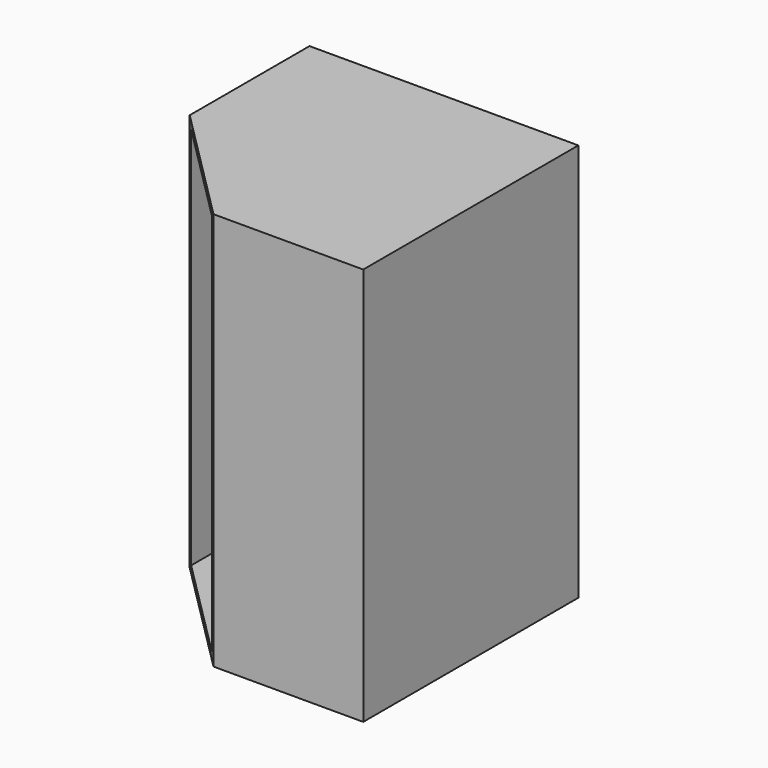
from build123d import *

# Parameters (mm, degrees)
F0_W      = 82.2246223688
F0_H      = 71.0700303316
F1_DEPTH  = 1000
F2_DEPTH  = 675
F3_DEPTH  = 675
F4_W      = 383.3865523338
F4_H      = 348.4983026981
F5_DEPTH  = 25
F6_DEPTH  = 84.39
F7_DEPTH  = 49.5
F9_DEPTH  = 25
F10_DEPTH = 975
F11_T     = -18


with BuildPart() as f1:
    # F0 (on Top) → F1 (new body)
    with BuildSketch(Plane.XY):
        with Locations((41.1123111844, -35.5350151658)):
            Rectangle(F0_W, F0_H)
    extrude(amount=F1_DEPTH)

    # F2 (add): a face of the model
    f2_faces = [f1.faces().sort_by_distance(p)[0] for p in [
        (0, -35.5350151658, 500),
    ]]
    extrude(f2_faces, amount=-F2_DEPTH)

    # F3 (add): a face of the model
    f3_faces = [f1.faces().sort_by_distance(p)[0] for p in [
        (337.5, 0, 500),
    ]]
    extrude(f3_faces, amount=-F3_DEPTH)

    # F4 (on face) → F5 (cut)
    with BuildSketch(Plane.XY.offset(1000)):
        with Locations((191.6932761669, -500.7508486509)):
            Rectangle(F4_W, F4_H)
    extrude(amount=-F5_DEPTH, mode=Mode.SUBTRACT)

    # F6 (add): a face of the model
    f6_faces = [f1.faces().sort_by_distance(p)[0] for p in [
        (383.3865523338, -500.7508486509, 987.5),
    ]]
    extrude(f6_faces, amount=F6_DEPTH)

    # F7 (add): a face of the model
    f7_faces = [f1.faces().sort_by_distance(p)[0] for p in [
        (149.4982761669, -326.5016973019, 987.5),
    ]]
    extrude(f7_faces, amount=F7_DEPTH)

    # F8 (on face) → F9 (join)
    with BuildSketch(Plane.XY.offset(975)):
        Polygon((0, -376.0016973019), (298.9965523338, -675), (298.9965523338, -376.0016973019), align=None)
    extrude(amount=F9_DEPTH)

    # F10 (cut): a face of the model
    f10_faces = [f1.faces().sort_by_distance(p)[0] for p in [
        (99.6655174446, -575.3338991006, 975),
    ]]
    extrude(f10_faces, amount=-F10_DEPTH, mode=Mode.SUBTRACT)

    # F11
    f11_openings = [f1.faces().sort_by_distance(p)[0] for p in [
        (149.498276, -525.500849, 500),
    ]]
    offset(amount=F11_T, openings=f11_openings)


solid = f1.part
